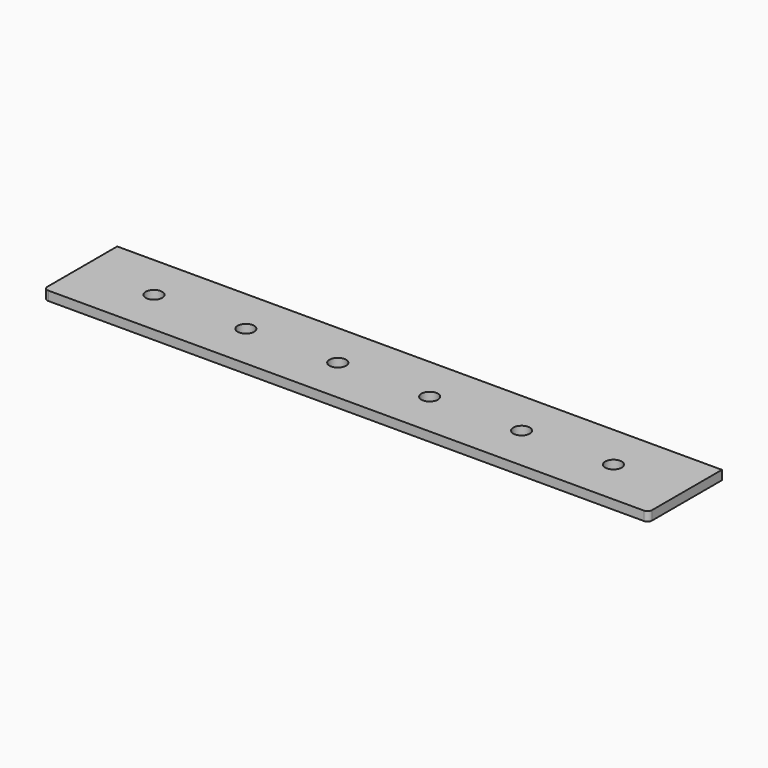
from build123d import *

# Parameters (mm, degrees)
F0_R     = 9
F1_DEPTH = 10
F2_R     = 5


with BuildPart() as f1:
    # F0 (on Top) → F1 (new body)
    with BuildSketch(Plane.XY):
        with BuildLine():
            ThreePointArc((-241.618113, -50), (-250.618113, -41), (-259.618113, -50))
            ThreePointArc((-259.618113, -50), (-250.618113, -59), (-241.618113, -50))
        make_face()
        Polygon((-330.618113, -50), (-330.618113, -100), (327.381887, -100), (327.381887, 0), (-330.618113, 0), align=None)
        with BuildLine():
            ThreePointArc((-241.618113, -50), (-250.618113, -59), (-259.618113, -50))
            ThreePointArc((-259.618113, -50), (-250.618113, -41), (-241.618113, -50))
        make_face(mode=Mode.SUBTRACT)
        with Locations((-150.618113, -50)):
            Circle(F0_R, mode=Mode.SUBTRACT)
        with Locations((-50.618113, -50)):
            Circle(F0_R, mode=Mode.SUBTRACT)
        with Locations((49.381887, -50)):
            Circle(F0_R, mode=Mode.SUBTRACT)
        with Locations((149.381887, -50)):
            Circle(F0_R, mode=Mode.SUBTRACT)
        with Locations((249.381887, -50)):
            Circle(F0_R, mode=Mode.SUBTRACT)
    extrude(amount=F1_DEPTH)

    # F2
    f2_edges = [f1.edges().sort_by_distance(p)[0] for p in [
        (-330.618113, -100, 5),
        (327.381887, -100, 5),
    ]]
    fillet(f2_edges, radius=F2_R)


solid = f1.part
